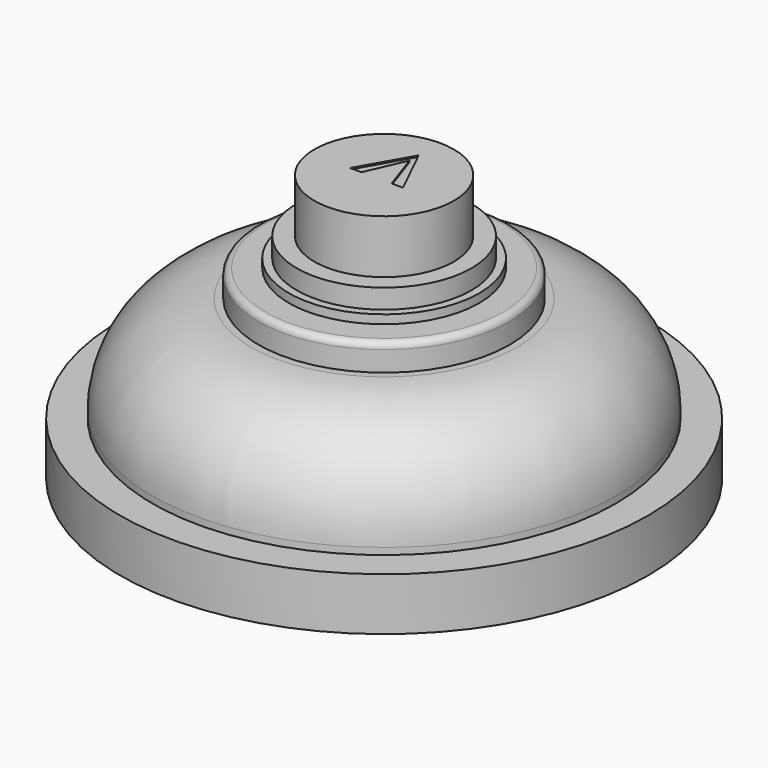
from build123d import *

# Parameters (mm, degrees)
F0_R      = 10.0048982814
F0_R_2    = 8.7765216672
F1_DEPTH  = 1.99898
F0_R_3    = 3.608871
F2_DEPTH  = 5.9944
F3_DEPTH  = 10.1092
F4_R      = 3.7405824935
F5_R      = 4.7625
F6_DEPTH  = 1.016
F7_R      = 0.2452840979
F8_R      = 3.608871
F8_R_2    = 3.3131091119
F9_DEPTH  = 2.7686
F8_R_3    = 2.6420381333
F10_DEPTH = 2.032
F13_DEPTH = 0.127
F14_DEPTH = 0.508
F15_DEPTH = 0.05334


with BuildPart() as f1:
    # F0 (on Top) → F1 (new body)
    with BuildSketch(Plane.XY):
        Circle(F0_R)
        Circle(F0_R_2, mode=Mode.SUBTRACT)
    extrude(amount=F1_DEPTH)

    # F0 (on Top) → F2 (join)
    with BuildSketch(Plane.XY):
        Circle(F0_R_2)
        Circle(F0_R_3, mode=Mode.SUBTRACT)
        Circle(F0_R_3)
    extrude(amount=F2_DEPTH)

    # F0 (on Top) → F3 (join)
    with BuildSketch(Plane.XY):
        Circle(F0_R_3)
    extrude(amount=F3_DEPTH)

    # F4
    f4_edges = [f1.edges().sort_by_distance(p)[0] for p in [
        (-8.776522, 0, 5.9944),
    ]]
    fillet(f4_edges, radius=F4_R)

    # F5 (on face) → F6 (join)
    with BuildSketch(Plane.XY.offset(5.9944)):
        Circle(F5_R)
    extrude(amount=F6_DEPTH)

    # F7
    f7_edges = [f1.edges().sort_by_distance(p)[0] for p in [
        (-4.7625, 0, 7.0104),
    ]]
    fillet(f7_edges, radius=F7_R)

    # F8 (on face) → F9 (cut)
    with BuildSketch(Plane.XY.offset(10.1092)):
        Circle(F8_R)
        Circle(F8_R_2, mode=Mode.SUBTRACT)
    extrude(amount=-F9_DEPTH, mode=Mode.SUBTRACT)

    # F8 (on face) → F10 (cut)
    with BuildSketch(Plane.XY.offset(10.1092)):
        Circle(F8_R_2)
        Circle(F8_R_3, mode=Mode.SUBTRACT)
    extrude(amount=-F10_DEPTH, mode=Mode.SUBTRACT)

    # F12 (on offset) → F13 (join, symmetric)
    with BuildSketch(Plane.XZ.offset(-2.667)):
        with BuildLine():
            ThreePointArc((0.6982848187, 9.1637990087), (0.4936989053, 9.6577130953), (-0.0002151813, 9.8622990087))
            Line((-0.0002151813, 9.8622990087), (-0.0002151813, 9.3522478652))
            ThreePointArc((-0.0002151813, 9.3522478652), (0.1330382831, 9.2970524731), (0.1882336753, 9.1637990087))
            ThreePointArc((0.1882336753, 9.1637990087), (0.1330382831, 9.0305455443), (-0.0002151813, 8.9753501521))
            Line((-0.0002151813, 8.9753501521), (-0.0002151813, 8.4652990087))
            ThreePointArc((-0.0002151813, 8.4652990087), (0.4936989053, 8.669884922), (0.6982848187, 9.1637990087))
        make_face()
        with BuildLine():
            Line((-0.0002151813, 9.3522478652), (-0.0002151813, 9.8622990087))
            ThreePointArc((-0.0002151813, 9.8622990087), (-0.6987151813, 9.1637990087), (-0.0002151813, 8.4652990087))
            Line((-0.0002151813, 8.4652990087), (-0.0002151813, 8.9753501521))
            ThreePointArc((-0.0002151813, 8.9753501521), (-0.1886640379, 9.1637990087), (-0.0002151813, 9.3522478652))
        make_face()
    extrude(amount=F13_DEPTH, both=True)

    # F12 (on offset) → F14 (cut)
    with BuildSketch(Plane.XZ.offset(-2.667)):
        with BuildLine():
            ThreePointArc((0.1882336753, 9.1637990087), (0.1330382831, 9.2970524731), (-0.0002151813, 9.3522478652))
            Line((-0.0002151813, 9.3522478652), (-0.0002151813, 8.9753501521))
            ThreePointArc((-0.0002151813, 8.9753501521), (0.1330382831, 9.0305455443), (0.1882336753, 9.1637990087))
        make_face()
        with BuildLine():
            Line((-0.0002151813, 8.9753501521), (-0.0002151813, 9.3522478652))
            ThreePointArc((-0.0002151813, 9.3522478652), (-0.1886640379, 9.1637990087), (-0.0002151813, 8.9753501521))
        make_face()
    extrude(amount=F14_DEPTH, mode=Mode.SUBTRACT)

    # F8 (on face) → F15 (cut)
    with BuildSketch(Plane.XY.offset(10.1092)):
        Polygon((0.008962602, 1.624630818), (-1.0713262968, -0.2752078575), (-0.6395262968, -0.2772395093), (0.0069309502, 1.192830818), (0.5111417182, -0.2826534897), (0.9429417182, -0.2846851415), align=None)
    extrude(amount=-F15_DEPTH, mode=Mode.SUBTRACT)


solid = f1.part
